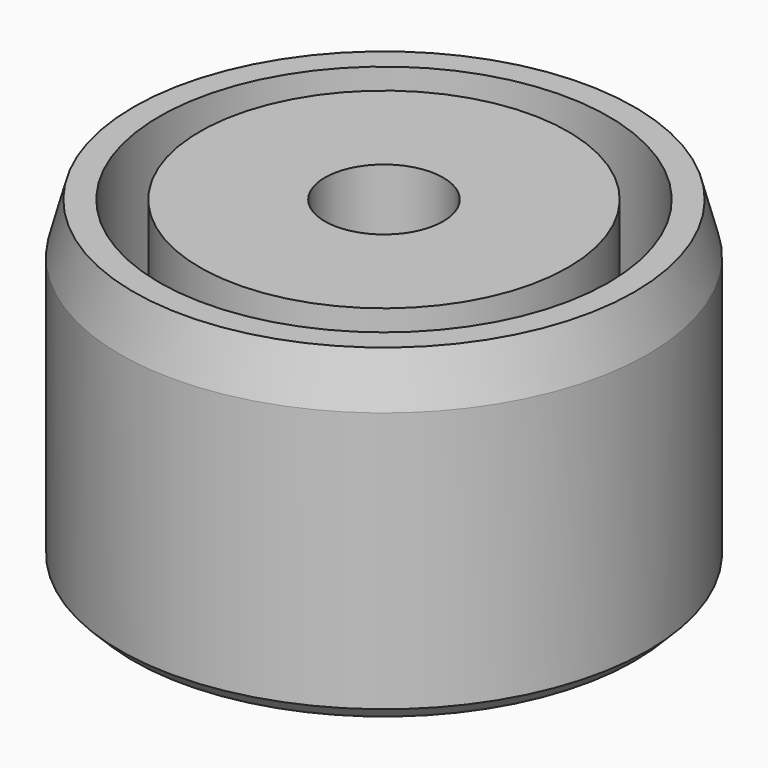
from build123d import *

# Parameters (mm, degrees)
F0_R     = 24.765
F0_R_2   = 21.082
F1_DEPTH = 30.48
F0_R_3   = 17.272
F0_R_4   = 5.55625
F2_DEPTH = 5.08
F3_SIZE2 = 4.7397045256
F3_SIZE  = 1.27
F4_SIZE  = 1.27


with BuildPart() as f1:
    # F0 (on Top) → F1 (new body)
    with BuildSketch(Plane.XY):
        Circle(F0_R)
        Circle(F0_R_2, mode=Mode.SUBTRACT)
    extrude(amount=F1_DEPTH)



with BuildPart() as f1b:
    # F0 (on Top) → F1, piece 2 (new body)
    with BuildSketch(Plane.XY):
        Circle(F0_R_3)
        Circle(F0_R_4, mode=Mode.SUBTRACT)
    extrude(amount=F1_DEPTH)


with BuildPart() as f1_1:
    add(f1.part)

    add(f1b.part)  # F2 merges F1b
    # F0 (on Top) → F2 (join)
    with BuildSketch(Plane.XY):
        Circle(F0_R_2)
        Circle(F0_R_3, mode=Mode.SUBTRACT)
    extrude(amount=F2_DEPTH)

    # F3
    f3_edges = [f1_1.edges().sort_by_distance(p)[0] for p in [
        (-24.765, 0, 30.48),
    ]]
    f3_side = f1_1.faces().sort_by_distance((-24.06454, 0, 30.48))[0]
    chamfer(f3_edges, length=F3_SIZE, length2=F3_SIZE2, reference=f3_side)

    # F4
    f4_edges = [f1_1.edges().sort_by_distance(p)[0] for p in [
        (-24.765, 0, 0),
    ]]
    chamfer(f4_edges, length=F4_SIZE)


solid = f1_1.part
